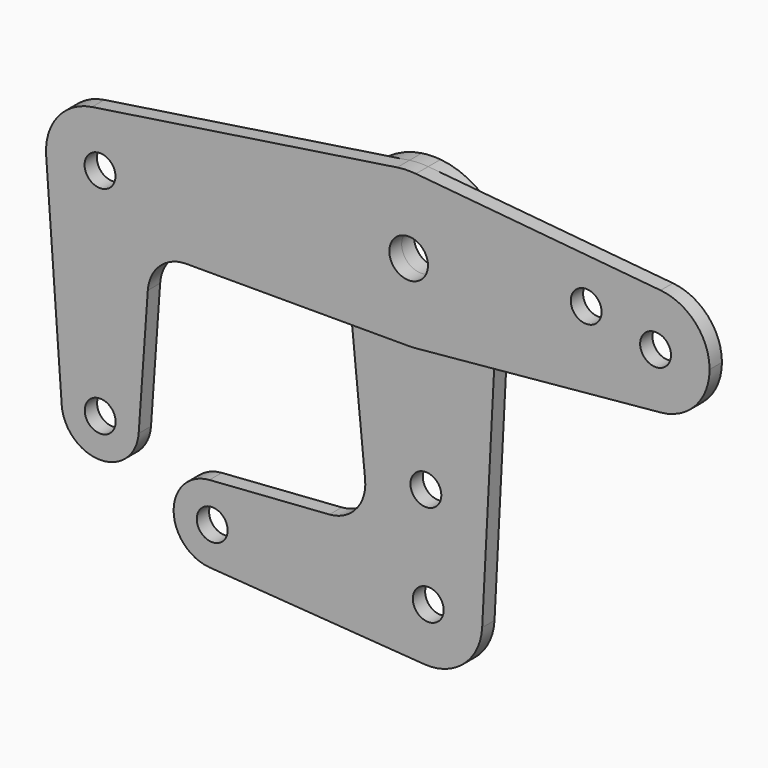
from build123d import *

# Parameters (mm, degrees)
F0_R     = 3.175
F0_R_2   = 3.9751
F1_DEPTH = 3.175
F2_DEPTH = 3.175


with BuildPart() as f1:
    # F0 (on Front) → F1 (new body)
    with BuildSketch(Plane.XZ):
        with BuildLine():
            ThreePointArc((61.9125, 0), (59.0178045737, 7.4803304899), (51.841796875, 11.0635579956))
            ThreePointArc((51.841796875, 11.0635579956), (39.6875, 0), (51.841796875, -11.0635579956))
            ThreePointArc((51.841796875, -11.0635579956), (59.0178045737, -7.4803304899), (61.9125, 0))
        make_face()
        with Locations((50.8, 0)):
            Circle(F0_R, mode=Mode.SUBTRACT)
        with BuildLine():
            ThreePointArc((-52.3875, -4.7625), (-56.2519617234, 3.6608958349), (-65.1575512741, 6.2256836544))
            ThreePointArc((-65.1575512741, 6.2256836544), (-72.1796915901, 2.1765640688), (-74.5835056245, -5.5647214913))
            ThreePointArc((-74.5835056245, -5.5647214913), (-63.0986273568, -15.8677490405), (-52.3875, -4.7625))
        make_face()
        with Locations((-63.5, -4.7625)):
            Circle(F0_R, mode=Mode.SUBTRACT)
        with BuildLine():
            ThreePointArc((-55.5285263289, -49.2124870168), (-63.7527210741, -41.2801662735), (-71.3828160607, -49.7855023677))
            ThreePointArc((-71.3828160607, -49.7855023677), (-63.4599596019, -57.1499846983), (-55.5483699218, -49.773399906))
            ThreePointArc((-55.5483699218, -49.773399906), (-55.5334887783, -49.4931189098), (-55.5285263289, -49.2124870168))
        make_face()
        with Locations((-63.4660263289, -49.2124870168)):
            Circle(F0_R, mode=Mode.SUBTRACT)
        with BuildLine():
            ThreePointArc((15.8538569984, -0.8190502266), (11.4600494419, -10.9855765342), (1.48828125, -15.8050828508))
            Line((1.48828125, -15.8050828508), (15.1460830642, -14.518999725))
            Line((15.1460830642, -14.518999725), (15.8538569984, -0.8190502266))
        make_face()
        with BuildLine():
            Line((-14.3838048337, -15.875), (-15.7980770924, -1.5608924319))
            ThreePointArc((-15.7980770924, -1.5608924319), (-12.528494171, 9.7494850534), (-2.3679303595, 15.6974052255))
            Line((-2.3679303595, 15.6974052255), (-65.1575512741, 6.2256836544))
            ThreePointArc((-65.1575512741, 6.2256836544), (-56.2519617234, 3.6608958349), (-52.3875, -4.7625))
            ThreePointArc((-52.3875, -4.7625), (-63.0986273568, -15.8677490405), (-74.5835056245, -5.5647214913))
            Line((-74.5835056245, -5.5647214913), (-71.3828160607, -49.7855023677))
            ThreePointArc((-71.3828160607, -49.7855023677), (-63.7527210741, -41.2801662735), (-55.5285263289, -49.2124870168))
            ThreePointArc((-55.5285263289, -49.2124870168), (-55.5334887783, -49.4931189098), (-55.5483699218, -49.773399906))
            Line((-55.5483699218, -49.773399906), (-53.6703133755, -23.2633896501))
            ThreePointArc((-53.6703133755, -23.2633896501), (-51.1593602406, -18.0083200509), (-45.7399887181, -15.875))
            Line((-45.7399887181, -15.875), (-14.3838048337, -15.875))
        make_face()
        with BuildLine():
            Line((51.841796875, 11.0635579956), (1.4882812706, 15.8050828489))
            ThreePointArc((1.4882812706, 15.8050828489), (11.7397208265, 10.6861864065), (15.875, 0))
            ThreePointArc((15.875, 0), (15.8697133693, -0.4096615372), (15.8538569984, -0.8190502266))
            Line((15.8538569984, -0.8190502266), (15.1460830642, -14.518999725))
            Line((15.1460830642, -14.518999725), (51.841796875, -11.0635579956))
            ThreePointArc((51.841796875, -11.0635579956), (39.6875, 0), (51.841796875, 11.0635579956))
        make_face()
        with Locations((36.5252, 3.175)):
            Circle(F0_R, mode=Mode.SUBTRACT)
        with BuildLine():
            ThreePointArc((-2.3679303595, 15.6974052255), (-12.528494171, 9.7494850534), (-15.7980770924, -1.5608924319))
            ThreePointArc((-15.7980770924, -1.5608924319), (-10.6591851857, -11.7642422696), (0, -15.875))
            ThreePointArc((0, -15.875), (0.7449613223, -15.8575110792), (1.48828125, -15.8050828508))
            ThreePointArc((1.48828125, -15.8050828508), (11.4600494419, -10.9855765342), (15.8538569984, -0.8190502266))
            ThreePointArc((15.8538569984, -0.8190502266), (15.8697133693, -0.4096615372), (15.875, 0))
            ThreePointArc((15.875, 0), (11.7397208265, 10.6861864065), (1.4882812706, 15.8050828489))
            ThreePointArc((1.4882812706, 15.8050828489), (-0.4431074899, 15.8688147242), (-2.3679303595, 15.6974052255))
        make_face()
        Circle(F0_R_2, mode=Mode.SUBTRACT)
        with BuildLine():
            ThreePointArc((0, -15.875), (-10.6591851857, -11.7642422696), (-15.7980770924, -1.5608924319))
            Line((-15.7980770924, -1.5608924319), (-14.3838048337, -15.875))
            Line((-14.3838048337, -15.875), (0, -15.875))
        make_face()
    extrude(amount=F1_DEPTH)


with BuildPart() as f2:
    # F0 (on Front) → F2 (new body)
    with BuildSketch(Plane.XZ):
        with BuildLine():
            ThreePointArc((1.48828125, -15.8050828508), (0.7449613223, -15.8575110792), (0, -15.875))
            Line((0, -15.875), (-14.3838048337, -15.875))
            Line((-14.3838048337, -15.875), (-11.4959823505, -45.1031782447))
            ThreePointArc((-11.4959823505, -45.1031782447), (-13.3291211923, -51.0090368921), (-18.8397879298, -53.8147661171))
            Line((-18.8397879298, -53.8147661171), (-43.5286830357, -55.582774618))
            ThreePointArc((-43.5286830357, -55.582774618), (-37.5532241705, -57.6903448782), (-35.02421875, -63.5))
            ThreePointArc((-35.02421875, -63.5), (-37.5532241705, -69.3096551218), (-43.5286830357, -71.417225382))
            Line((-43.5286830357, -71.417225382), (0.69453125, -74.5841155347))
            ThreePointArc((0.69453125, -74.5841155347), (-6.0836111612, -55.3664828295), (12.60078125, -63.5))
            ThreePointArc((12.60078125, -63.5), (12.5970806085, -63.786763076), (12.5859811489, -64.0733351586))
            Line((12.5859811489, -64.0733351586), (15.1460830642, -14.518999725))
            Line((15.1460830642, -14.518999725), (1.48828125, -15.8050828508))
        make_face()
        with Locations((1.0042921875, -42.8498)):
            Circle(F0_R, mode=Mode.SUBTRACT)
        with BuildLine():
            ThreePointArc((0.69453125, -74.5841155347), (8.847763019, -71.8262046781), (12.5859811489, -64.0733351586))
            ThreePointArc((12.5859811489, -64.0733351586), (12.5970806085, -63.786763076), (12.60078125, -63.5))
            ThreePointArc((12.60078125, -63.5), (-6.0836111612, -55.3664828295), (0.69453125, -74.5841155347))
        make_face()
        with Locations((1.48828125, -63.5)):
            Circle(F0_R, mode=Mode.SUBTRACT)
        with BuildLine():
            ThreePointArc((-35.02421875, -63.5), (-37.5532241705, -57.6903448782), (-43.5286830357, -55.582774618))
            ThreePointArc((-43.5286830357, -55.582774618), (-50.89921875, -63.5), (-43.5286830357, -71.417225382))
            ThreePointArc((-43.5286830357, -71.417225382), (-37.5532241705, -69.3096551218), (-35.02421875, -63.5))
        make_face()
        with Locations((-42.96171875, -63.5)):
            Circle(F0_R, mode=Mode.SUBTRACT)
        with BuildLine():
            ThreePointArc((-2.3679303595, 15.6974052255), (-12.528494171, 9.7494850534), (-15.7980770924, -1.5608924319))
            ThreePointArc((-15.7980770924, -1.5608924319), (-10.6591851857, -11.7642422696), (0, -15.875))
            ThreePointArc((0, -15.875), (0.7449613223, -15.8575110792), (1.48828125, -15.8050828508))
            ThreePointArc((1.48828125, -15.8050828508), (11.4600494419, -10.9855765342), (15.8538569984, -0.8190502266))
            ThreePointArc((15.8538569984, -0.8190502266), (15.8697133693, -0.4096615372), (15.875, 0))
            ThreePointArc((15.875, 0), (11.7397208265, 10.6861864065), (1.4882812706, 15.8050828489))
            ThreePointArc((1.4882812706, 15.8050828489), (-0.4431074899, 15.8688147242), (-2.3679303595, 15.6974052255))
        make_face()
        Circle(F0_R_2, mode=Mode.SUBTRACT)
        with BuildLine():
            ThreePointArc((15.8538569984, -0.8190502266), (11.4600494419, -10.9855765342), (1.48828125, -15.8050828508))
            Line((1.48828125, -15.8050828508), (15.1460830642, -14.518999725))
            Line((15.1460830642, -14.518999725), (15.8538569984, -0.8190502266))
        make_face()
        with BuildLine():
            ThreePointArc((0, -15.875), (-10.6591851857, -11.7642422696), (-15.7980770924, -1.5608924319))
            Line((-15.7980770924, -1.5608924319), (-14.3838048337, -15.875))
            Line((-14.3838048337, -15.875), (0, -15.875))
        make_face()
    extrude(amount=-F2_DEPTH)


solid = Compound([f1.part, f2.part])
